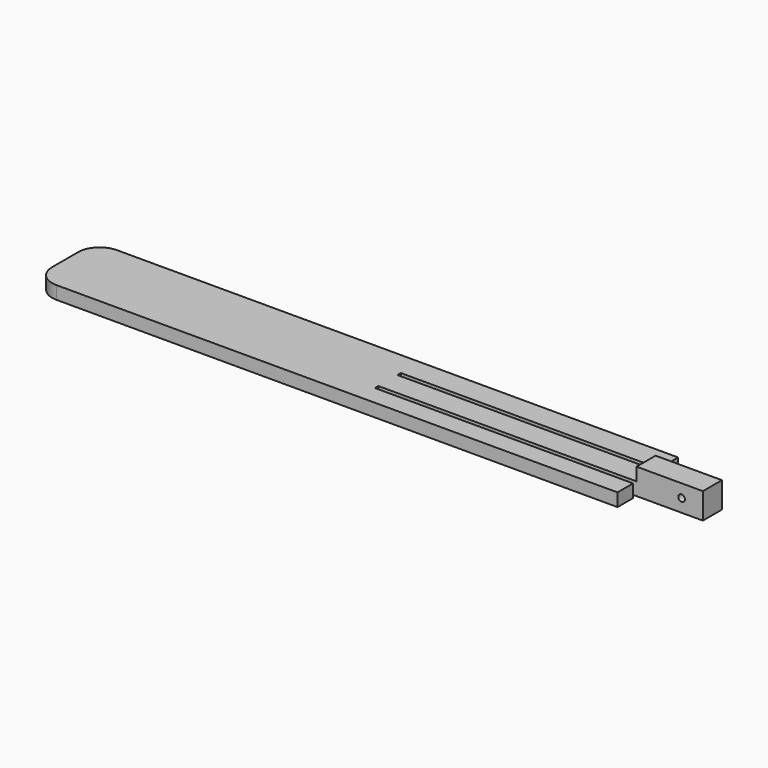
from build123d import *

# Parameters (mm, degrees)
F1_DEPTH = 6
F2_R     = 10
F3_W     = 30.655736
F3_H     = 11
F4_DEPTH = 6
F5_R     = 1.525335
F6_DEPTH = 11.4


with BuildPart() as f1:
    # F0 (on Top) → F1 (new body)
    with BuildSketch(Plane.XY):
        Polygon((119.344264, 17.5), (-150, 17.5), (-150, -17.5), (119.344264, -17.5), (119.344264, -8.5), (0, -8.5), (0, -6.5), (150, -6.5), (150, 4.5), (0, 4.5), (0, 6.5), (119.344264, 6.5), align=None)
    extrude(amount=F1_DEPTH)

    # F2
    f2_edges = [f1.edges().sort_by_distance(p)[0] for p in [
        (-150, -17.5, 3),
        (-150, 17.5, 3),
    ]]
    fillet(f2_edges, radius=F2_R)

    # F3 (on face) → F4 (join)
    with BuildSketch(Plane.XY.offset(6)):
        with Locations((134.672132, -1)):
            Rectangle(F3_W, F3_H)
    extrude(amount=F4_DEPTH)

    # F5 (on face) → F6 (cut)
    with BuildSketch(Plane.XZ.offset(6.5)):
        with Locations((140.18032, 5.98348)):
            Circle(F5_R)
    extrude(amount=-F6_DEPTH, mode=Mode.SUBTRACT)


solid = f1.part
